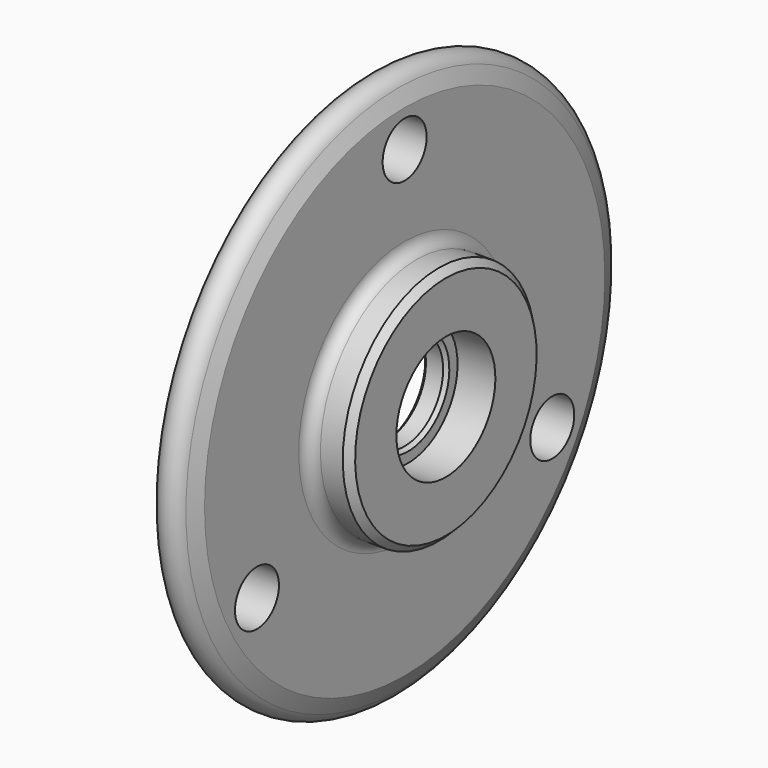
from build123d import *

# Parameters (mm, degrees)
F2_R     = 1.75
F3_SIZE  = 1
F4_R     = 4
F5_DEPTH = 25
F6_SIZE  = 0.5
F7_SIZE  = 0.5


with BuildPart() as f1:
    # F0 (on Front) → F1 (revolve)
    with BuildSketch(Plane.XZ):
        with BuildLine():
            Line((0, 36.387), (0, 25))
            Line((0, 25), (3, 20.715556))
            Line((3, 20.715556), (3, 7))
            Line((3, 7), (6.5, 7))
            Line((6.5, 7), (6.5, 9))
            Line((6.5, 9), (12, 9))
            Line((12, 9), (12, 17.5))
            Line((12, 17.5), (6, 17.5))
            Line((6, 17.5), (6, 36.387))
            Line((6, 36.387), (5.078729, 38.611145))
            ThreePointArc((5.078729, 38.611145), (3, 40.000107), (0.921271, 38.611145))
            Line((0.921271, 38.611145), (0, 36.387))
        make_face()
    revolve(axis=Axis((11.340396, 0, 0), (1, 0, 0)))

    # F2
    f2_edges = [f1.edges().sort_by_distance(p)[0] for p in [
        (6, 0, -17.5),
    ]]
    fillet(f2_edges, radius=F2_R)

    # F3
    f3_edges = [f1.edges().sort_by_distance(p)[0] for p in [
        (12, 0, -17.5),
    ]]
    chamfer(f3_edges, length=F3_SIZE)

    # F4 (on face) → F5 (cut)
    with BuildSketch(Plane(origin=(0, 0, 0), x_dir=(0, -1, 0), z_dir=(-1, 0, 0))):
        with Locations((0, 31)):
            Circle(F4_R)
        with Locations((-26.846788, -15.5)):
            Circle(F4_R)
        with Locations((26.846788, -15.5)):
            Circle(F4_R)
    extrude(amount=-F5_DEPTH, mode=Mode.SUBTRACT)

    # F6
    f6_edges = [f1.edges().sort_by_distance(p)[0] for p in [
        (6.5, 0, -7),
    ]]
    chamfer(f6_edges, length=F6_SIZE)

    # F7
    f7_edges = [f1.edges().sort_by_distance(p)[0] for p in [
        (3, 0, -7),
    ]]
    chamfer(f7_edges, length=F7_SIZE)


solid = f1.part
